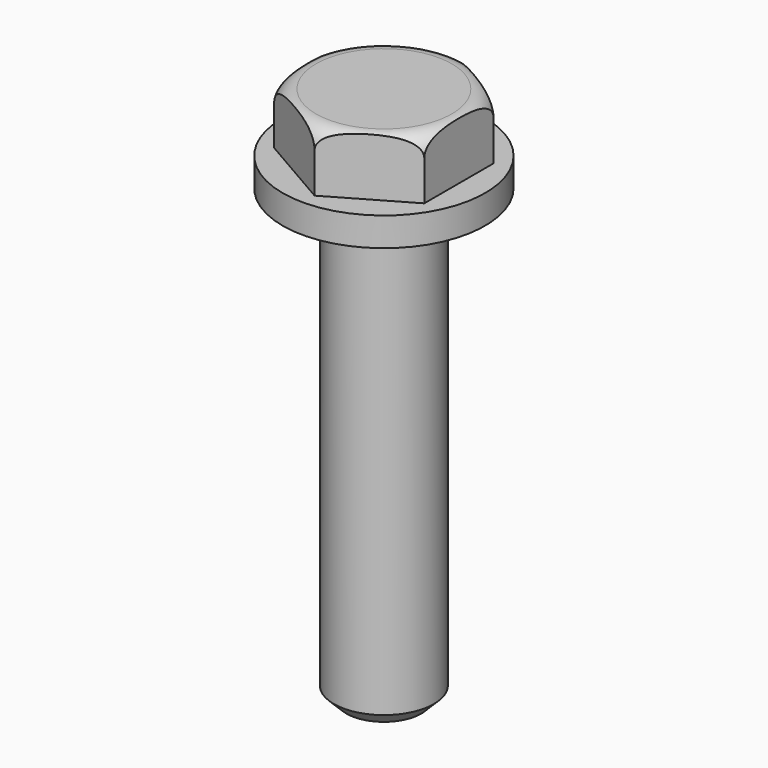
from build123d import *

# Parameters (mm, degrees)
F2_R     = 1.5
F3_R     = 8
F4_DEPTH = 43.001
F5_W     = 8.1
F5_H     = 2.3
F7_SIZE  = 1


with BuildPart() as f1:
    # F0 (on Front) → F1 (revolve)
    with BuildSketch(Plane.XZ):
        Polygon((-4, 0), (0, 0), (0, 43), (-6.9282032303, 43), (-6.9282032303, 36), (-4, 36), align=None)
    revolve(axis=Axis((0, 0, 24.3542883545), (0, 0, 1)))

    # F2
    f2_edges = [f1.edges().sort_by_distance(p)[0] for p in [
        (6.928203, 0, 43),
    ]]
    fillet(f2_edges, radius=F2_R)

    # F3 (on face) → F4 (cut, through all)
    with BuildSketch(Plane.XY.offset(43)):
        Circle(F3_R)
        Polygon((0, -6.9282032303), (-6, -3.4641016151), (-6, 3.4641016151), (0, 6.9282032303), (6, 3.4641016151), (6, -3.4641016151), align=None, mode=Mode.SUBTRACT)
    extrude(amount=-F4_DEPTH, mode=Mode.SUBTRACT)

    # F5 (on Front) → F6 (revolve)
    with BuildSketch(Plane.XZ):
        with Locations((-4.05, 37.15)):
            Rectangle(F5_W, F5_H)
    revolve(axis=Axis((0, 0, 29.9482884184), (0, 0, -1)))

    # F7
    f7_edges = [f1.edges().sort_by_distance(p)[0] for p in [
        (4, 0, 0),
    ]]
    chamfer(f7_edges, length=F7_SIZE)


solid = f1.part
